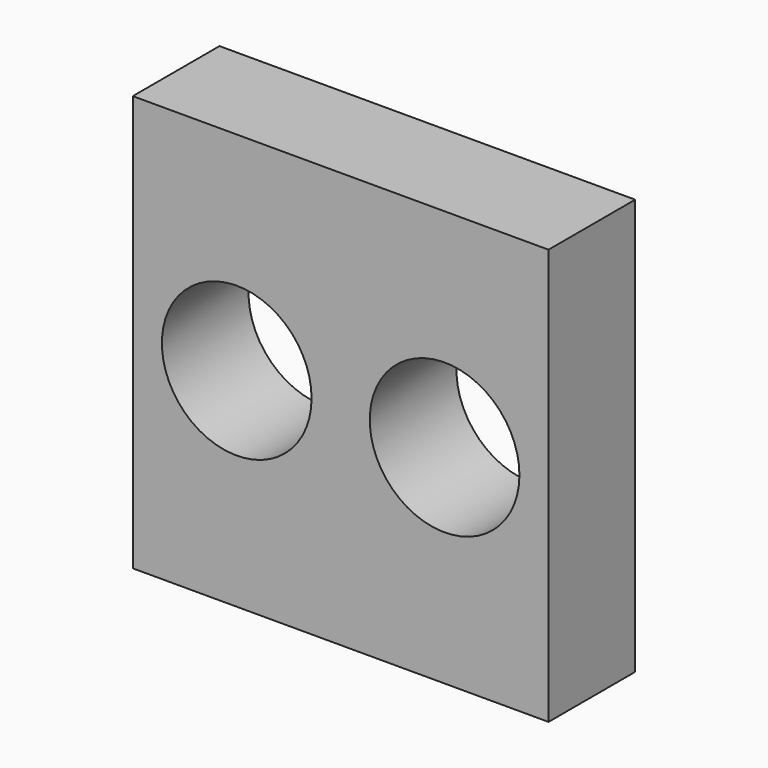
from build123d import *

# Parameters (mm, degrees)
F0_W     = 127
F0_H     = 127
F0_R     = 22.86
F1_DEPTH = 33.0962


with BuildPart() as f1:
    # F0 (on Front) → F1 (new body)
    with BuildSketch(Plane.XZ):
        Rectangle(F0_W, F0_H)
        with Locations((-31.75, 0)):
            Circle(F0_R, mode=Mode.SUBTRACT)
        with Locations((31.75, 0)):
            Circle(F0_R, mode=Mode.SUBTRACT)
    extrude(amount=-F1_DEPTH)


solid = f1.part
